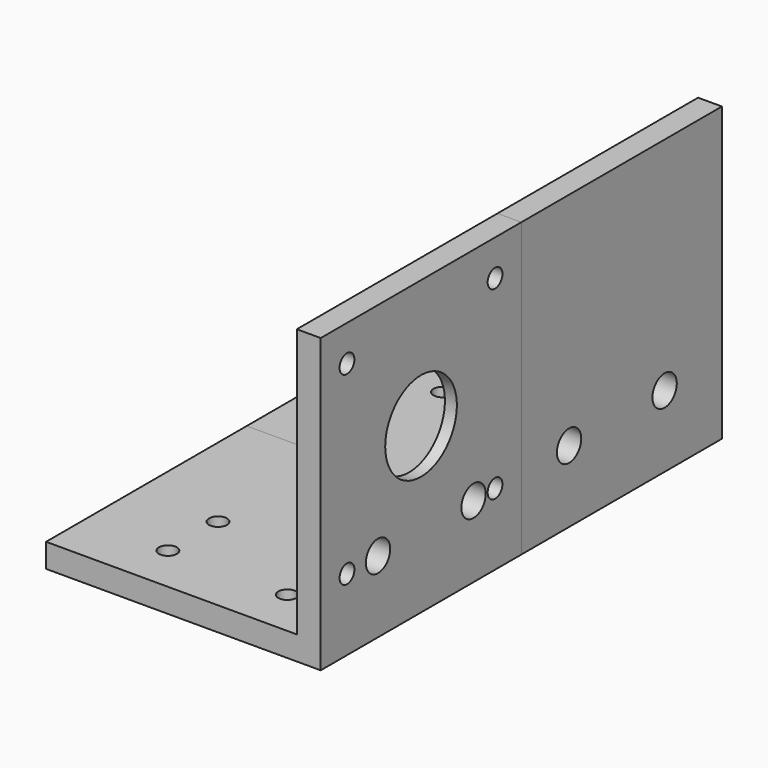
from build123d import *

# Parameters (mm, degrees)
F1_DEPTH  = 42
F2_R      = 1.5
F3_DEPTH  = 25
F4_R      = 2.55
F5_DEPTH  = 4
F7_R      = 1.55
F7_R_2    = 7.5
F8_DEPTH  = 4.001
F9_R      = 11.5
F9_R_2    = 7.5
F10_DEPTH = 2


with BuildPart() as f1:
    # F0 (on Front) → F1 (new body)
    with BuildSketch(Plane.XZ):
        Polygon((0, 4), (0, 0), (46, 0), (46, 25), (46, 49), (42, 49), (42, 23), (42, 4), align=None)
    extrude(amount=F1_DEPTH)

    # F2 (on face) → F3 (cut)
    with BuildSketch(Plane(origin=(0, 0, 0), x_dir=(1, 0, 0), z_dir=(0, 0, -1))):
        with Locations((14, 3.5)):
            Circle(F2_R)
        with Locations((34, 3.5)):
            Circle(F2_R)
        with Locations((14, 23.5)):
            Circle(F2_R)
        with Locations((34, 23.5)):
            Circle(F2_R)
        with Locations((34, 34)):
            Circle(F2_R)
        with Locations((14, 34)):
            Circle(F2_R)
    extrude(amount=-F3_DEPTH, mode=Mode.SUBTRACT)

    # F4 (on face) → F5 (cut, through all)
    with BuildSketch(Plane(origin=(42, 0, 0), x_dir=(0, -1, 0), z_dir=(-1, 0, 0))):
        with Locations((10, 12)):
            Circle(F4_R)
        with Locations((30, 12)):
            Circle(F4_R)
    extrude(amount=-F5_DEPTH, mode=Mode.SUBTRACT)


with BuildPart() as f6_1:
    # F6: instance of F1
    add(f1.part.mirror(Plane.XZ))


with BuildPart() as f1_1:
    add(f1.part)

    # F7 (on face) → F8 (cut, through all)
    with BuildSketch(Plane(origin=(42, 0, 0), x_dir=(0, -1, 0), z_dir=(-1, 0, 0))):
        with Locations((5.5, 43)):
            Circle(F7_R)
        with Locations((36.5, 43)):
            Circle(F7_R)
        with Locations((5.5, 12)):
            Circle(F7_R)
        with Locations((36.5, 12)):
            Circle(F7_R)
        with Locations((21, 27.5)):
            Circle(F7_R_2)
    extrude(amount=-F8_DEPTH, mode=Mode.SUBTRACT)

    # F9 (on face) → F10 (cut)
    with BuildSketch(Plane(origin=(42, 0, 0), x_dir=(0, -1, 0), z_dir=(-1, 0, 0))):
        with Locations((21, 27.5)):
            Circle(F9_R)
        with Locations((21, 27.5)):
            Circle(F9_R_2, mode=Mode.SUBTRACT)
    extrude(amount=-F10_DEPTH, mode=Mode.SUBTRACT)


solid = Compound([f6_1.part, f1_1.part])
